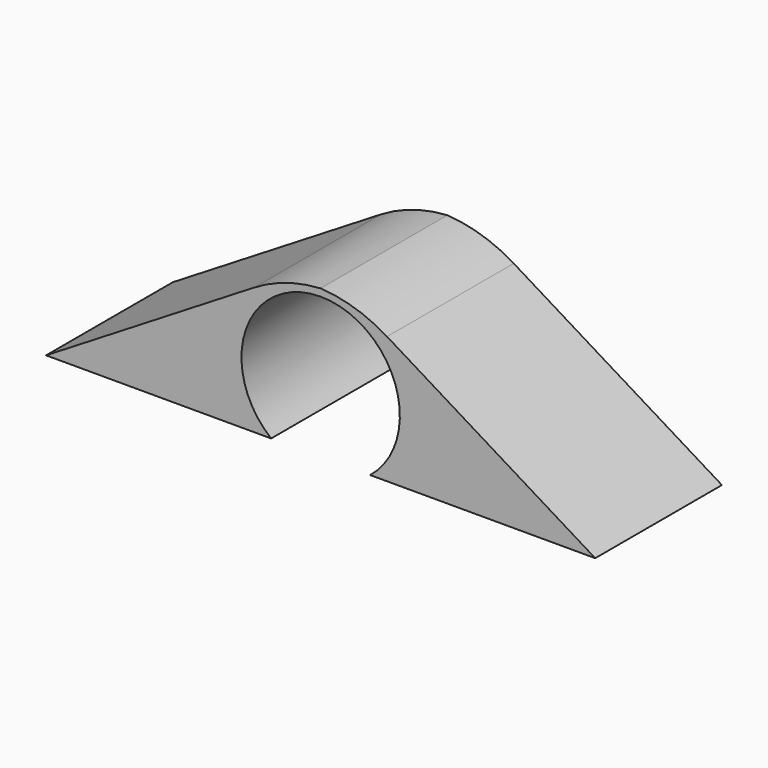
from build123d import *

# Parameters (mm, degrees)
F1_DEPTH = 12.7
F2_D     = 12.7


with BuildPart() as f1:
    # F0 (on Front) → F1 (new body)
    with BuildSketch(Plane.XZ):
        with BuildLine():
            Line((-22.0171399415, 0), (0, 0))
            Line((0, 0), (22.0171399415, 0))
            Line((22.0171399415, 0), (5.3244060837, 10.2171041071))
            ThreePointArc((5.3244060837, 10.2171041071), (2.7651119462, 11.3809428826), (0, 11.8895322084))
            ThreePointArc((0, 11.8895322084), (-2.7651119462, 11.3809428826), (-5.3244060837, 10.2171041071))
            Line((-5.3244060837, 10.2171041071), (-22.0171399415, 0))
        make_face()
    extrude(amount=F1_DEPTH)

    # F2 (through all)
    with Locations(Plane(origin=(0, 0, 0), x_dir=(1, 0, 0), z_dir=(0, 1, 0))):
        with Locations((0, -4.9553671852)):
            Hole(F2_D / 2)


solid = f1.part
